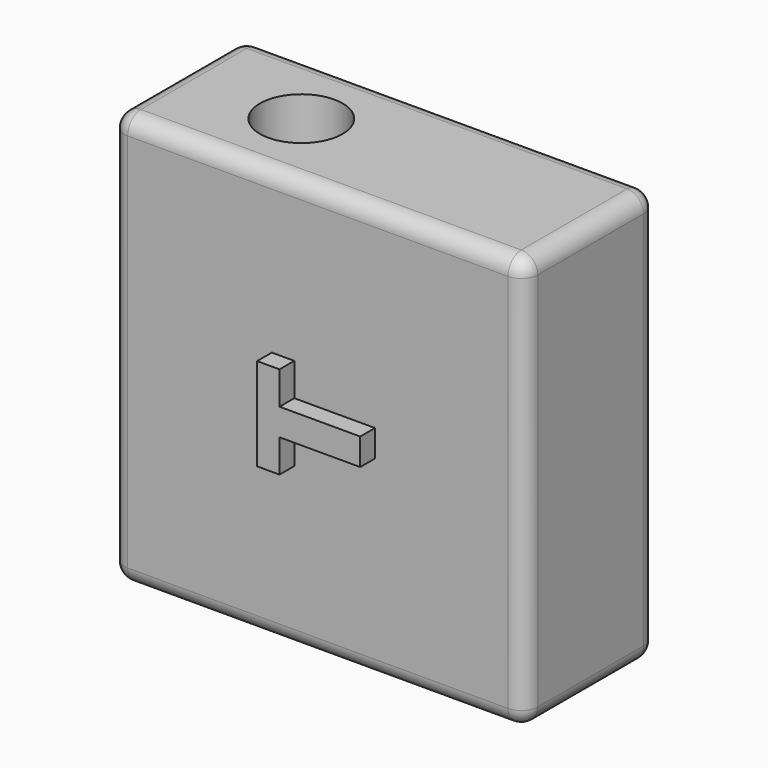
from build123d import *

# Parameters (mm, degrees)
F0_W     = 127
F0_H     = 127
F1_DEPTH = 50.8
F2_R     = 5.08
F4_DEPTH = 5.66607
F6_DEPTH = 127.001


with BuildPart() as f1:
    # F0 (on Front) → F1 (new body)
    with BuildSketch(Plane.XZ):
        with Locations((0.4741810262, -5.6527711832)):
            Rectangle(F0_W, F0_H)
    extrude(amount=F1_DEPTH)

    # F2
    f2_edges = [f1.edges().sort_by_distance(p)[0] for p in [
        (0.474181, -50.8, -69.152771),
        (0.474181, 0, -69.152771),
        (0.474181, 0, 57.847229),
        (0.474181, -50.8, 57.847229),
        (-63.025819, -50.8, -5.652771),
        (-63.025819, 0, -5.652771),
        (-63.025819, -25.4, 57.847229),
        (-63.025819, -25.4, -69.152771),
        (63.974181, -25.4, -69.152771),
        (63.974181, -25.4, 57.847229),
        (63.974181, 0, -5.652771),
        (63.974181, -50.8, -5.652771),
    ]]
    fillet(f2_edges, radius=F2_R)

    # F3 (on face) → F4 (join)
    with BuildSketch(Plane.XZ.offset(50.8)):
        Polygon((-13.6571113464, 8.5772094634), (-13.6571113464, -19.8827518299), (-6.7716367987, -19.8827518299), (-6.7716367987, -9.7840579375), (18.0160704556, -9.7840579375), (18.0160704556, -1.521484429), (-6.7716367987, -1.521484429), (-6.7716367987, 8.5772094634), align=None)
    extrude(amount=F4_DEPTH)

    # F5 (on face) → F6 (cut, through all)
    with BuildSketch(Plane(origin=(0, 0, -69.1527711832), x_dir=(1, 0, 0), z_dir=(0, 0, -1))):
        with BuildLine():
            ThreePointArc((-37.6258189738, 25.4), (-24.9258189738, 12.7), (-12.2258189738, 25.4))
            ThreePointArc((-12.2258189738, 25.4), (-24.9258189738, 38.1), (-37.6258189738, 25.4))
        make_face()
    extrude(amount=-F6_DEPTH, mode=Mode.SUBTRACT)


solid = f1.part
